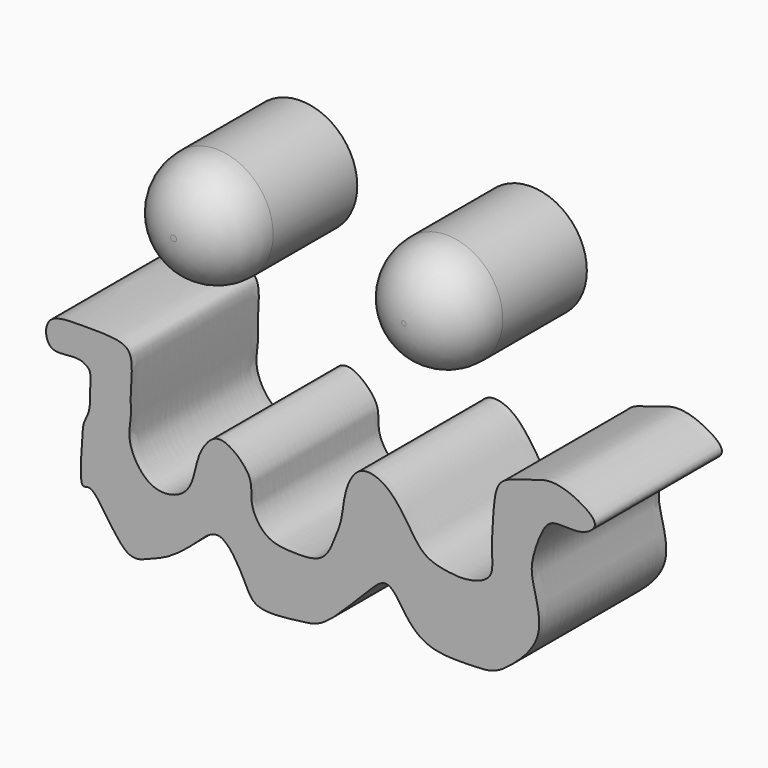
from build123d import *

# Parameters (mm, degrees)
F1_DEPTH = 25.4
F0_R     = 9.0542915296
F0_R_2   = 8.9520282759
F2_R     = 8.5849434278
F2_2_R   = 8.5849434278


with BuildPart() as f1:
    # F0 (on Front) → F1 (new body)
    with BuildSketch(Plane.XZ):
        with BuildLine():
            add(Edge.make_bspline(
                [(-58.8568039238, 22.5242357701), (-56.5492285379, 22.537586684), (-52.5449185731, 22.5995821907), (-50.4820211377, 20.7517336258), (-51.1926767045, 14.9662229415), (-50.8616860634, 12.2315898055), (-51.5605850729, 9.1265809451), (-50.1014949552, 5.4946032162), (-46.9517744157, 2.6841787131), (-42.4147820583, 3.6765106865), (-40.8307362833, 6.8539820429), (-40.3807291295, 10.3722801285), (-38.1269091997, 13.7531200821), (-35.3667476296, 13.7355188192), (-31.1885320076, 9.9250801841), (-32.2029174356, 6.2661540995), (-29.5560043376, 1.8650457324), (-25.2453498318, 1.5017286586), (-19.9528269452, 1.5062962691), (-18.3025728094, 5.9717595599), (-17.1416514213, 8.7503132503), (-16.908770142, 13.1140461118), (-14.7833787649, 17.0422815901), (-11.4723374697, 16.6677743398), (-8.9294199973, 14.7753680551), (-6.5113877861, 11.397050823), (-4.223295502, 7.5563170163), (0.0520854311, 6.7743711487), (3.1085032587, 6.5993985564), (7.1315689409, 8.0264485274), (6.6015676854, 12.1699841829), (6.9427287371, 17.0457460096), (7.3296053321, 22.8066977775), (11.8047907226, 23.5267958401), (15.7494324862, 25.4444674082), (20.3047617013, 24.0775840696), (24.4352578686, 21.1941121276), (20.7682205418, 18.7499060837), (16.35043402, 19.8222862671), (14.6224568774, 17.4696664998), (13.2722432629, 13.6003406189), (12.8062780261, 10.3586089894), (15.7145453016, 2.7740208072), (10.437581227, -2.6268349393), (7.0709107867, -5.032369194), (3.4040827646, -5.0760257473), (-2.9498136018, -5.2867261285), (-6.8632124668, -2.3151953242), (-9.8046888065, 3.4892106128), (-13.2464820087, -0.2990170753), (-15.8700084237, -2.7976756402), (-20.3666710333, -7.4434669052), (-24.1501098121, -7.758707889), (-31.3349450979, -8.7654612211), (-32.7513868255, -4.8079019377), (-36.7316433782, 1.851603712), (-40.8692462499, -2.6202610741), (-45.2046652487, -5.858981165), (-48.0185081419, -6.731086574), (-52.2465792774, -8.8734429297), (-56.8674928796, 1.2796339276), (-59.3094947627, -1.0373631616), (-58.7989783172, 6.0464117226), (-58.7199409536, 8.9756198856), (-57.3598763838, 10.8631277037), (-57.5657111007, 14.8553165455), (-57.3358062145, 16.7934545039), (-59.653843234, 18.0702840286), (-63.593111311, 16.9450447542), (-64.835301796, 19.3705790542), (-64.1316975402, 22.5265469146), (-60.9073635429, 22.5123718696), (-58.8568039238, 22.5242357701)],
                knots=[0, 0, 0, 0, 0.0179609693, 0.0286302248, 0.0454148081, 0.0576998658, 0.0699985506, 0.0839384218, 0.0981239803, 0.1124493258, 0.1253898391, 0.1390998533, 0.1527803098, 0.1637684029, 0.1797722851, 0.1932712362, 0.2083080009, 0.2230456442, 0.2386919584, 0.2532606841, 0.2658736317, 0.2808730373, 0.2951464426, 0.3070149363, 0.3196278852, 0.3343018652, 0.349187488, 0.3635149791, 0.3763996562, 0.3898155327, 0.403314483, 0.4198022678, 0.4358858196, 0.4499637717, 0.4647876292, 0.4805644489, 0.4944289654, 0.5067140196, 0.5215996416, 0.5329160967, 0.5471895011, 0.5602792417, 0.5796611826, 0.5984878957, 0.6127612985, 0.6262602518, 0.6439394827, 0.660053364, 0.6760695793, 0.6895375592, 0.7041470372, 0.7216590265, 0.7360612254, 0.7540047001, 0.7681902642, 0.7859196639, 0.801238695, 0.8182023653, 0.8305818804, 0.8440498595, 0.8657638518, 0.8735336008, 0.8906203561, 0.903743819, 0.9141537066, 0.9283481268, 0.9378933292, 0.9484995142, 0.9623258874, 0.9727581425, 0.984039508, 1, 1, 1, 1], degree=3))
        make_face()
    extrude(amount=F1_DEPTH)


with BuildPart() as f1b:
    # F0 (on Front) → F1, piece 2 (new body)
    with BuildSketch(Plane.XZ):
        with Locations((-44.167086482, 39.5643115044)):
            Circle(F0_R)
    extrude(amount=F1_DEPTH)

    # F2
    f2_edges = [f1b.edges().sort_by_distance(p)[0] for p in [
        (-53.221378, -25.4, 39.564312),
    ]]
    fillet(f2_edges, radius=F2_R)


with BuildPart() as f1c:
    # F0 (on Front) → F1, piece 3 (new body)
    with BuildSketch(Plane.XZ):
        with Locations((-7.3448596522, 39.5643115044)):
            Circle(F0_R_2)
    extrude(amount=F1_DEPTH)

    # F2#2
    f2_2_edges = [f1c.edges().sort_by_distance(p)[0] for p in [
        (-16.296888, -25.4, 39.564312),
    ]]
    fillet(f2_2_edges, radius=F2_2_R)


solid = Compound([f1.part, f1b.part, f1c.part])
